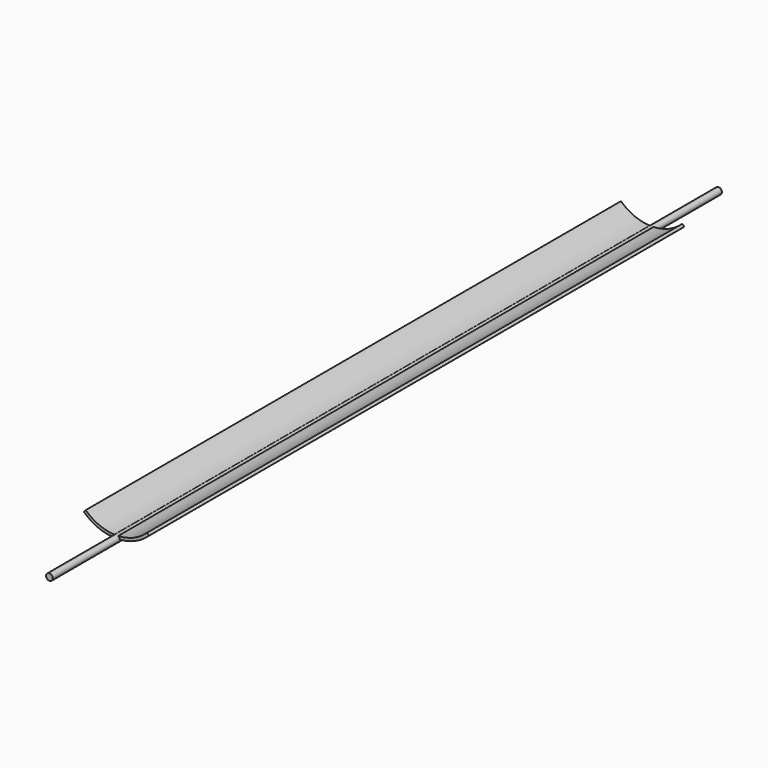
from build123d import *

# Parameters (mm, degrees)
F0_R     = 6
F1_DEPTH = 750
F3_DEPTH = 600


with BuildPart() as f1:
    # F0 (on Front) → F1 (new body, symmetric)
    with BuildSketch(Plane.XZ):
        Circle(F0_R)
    extrude(amount=F1_DEPTH, both=True)

    # F2 (on Front) → F3 (join, symmetric)
    with BuildSketch(Plane.XZ):
        with BuildLine():
            Line((-55, 26.90525), (-58.4375, 23.274328))
            ThreePointArc((-58.4375, 23.274328), (0, 0), (58.4375, 23.274328))
            Line((58.4375, 23.274328), (55, 26.90525))
            ThreePointArc((55, 26.90525), (0, 5), (-55, 26.90525))
        make_face()
    extrude(amount=F3_DEPTH, both=True)


solid = f1.part
